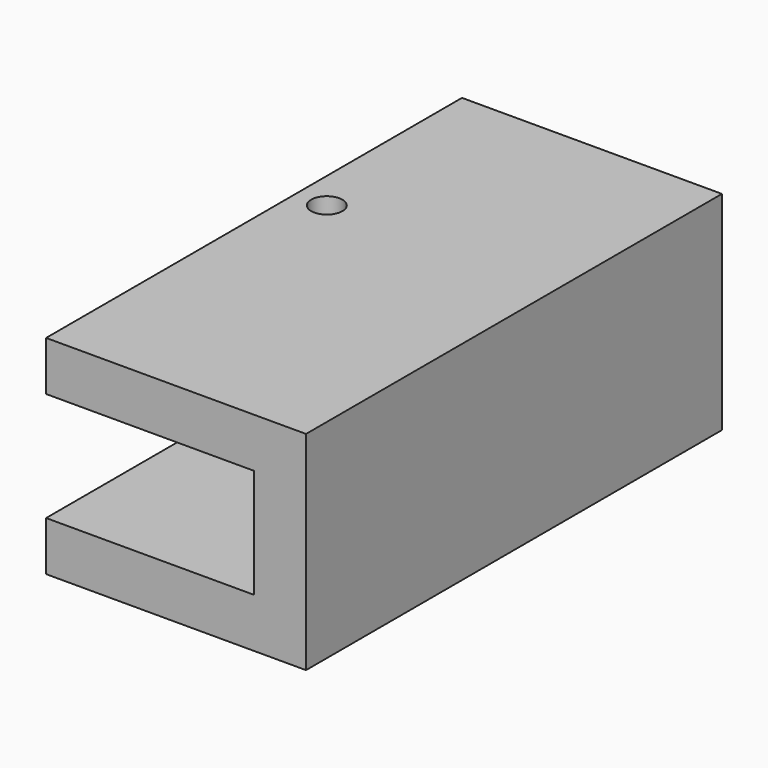
from build123d import *

# Parameters (mm, degrees)
SKETCH001_W     = 25
SKETCH001_H     = 50
PAD001_DEPTH    = 20
SKETCH002_W     = 55
SKETCH002_H     = 10.5
POCKET_DEPTH    = 20
SKETCH003_R     = 1.5
POCKET001_DEPTH = 20.001


with BuildPart() as part:
    # Sketch001 → Pad001 (new body)
    with BuildSketch(Plane.XY):
        with Locations((9.5, -5)):
            Rectangle(SKETCH001_W, SKETCH001_H)
    extrude(amount=PAD001_DEPTH)

    # Sketch002 (on Face4 of Pad001) → Pocket (cut)
    with BuildSketch(Plane(origin=(-3, 0, 0), x_dir=(0, -1, 0), z_dir=(-1, 0, 0))):
        with Locations((5, 10)):
            Rectangle(SKETCH002_W, SKETCH002_H)
    extrude(amount=-POCKET_DEPTH, mode=Mode.SUBTRACT)

    # Sketch003 (on Face6 of Pad001) → Pocket001 (cut, through all)
    with BuildSketch(Plane.XY.offset(20)):
        Circle(SKETCH003_R)
    extrude(amount=-POCKET001_DEPTH, mode=Mode.SUBTRACT)


with BuildPart() as part_1:
    # Body001 placement: moved
    add(part.part.moved(Location((0, 0, -5))))


solid = part_1.part
